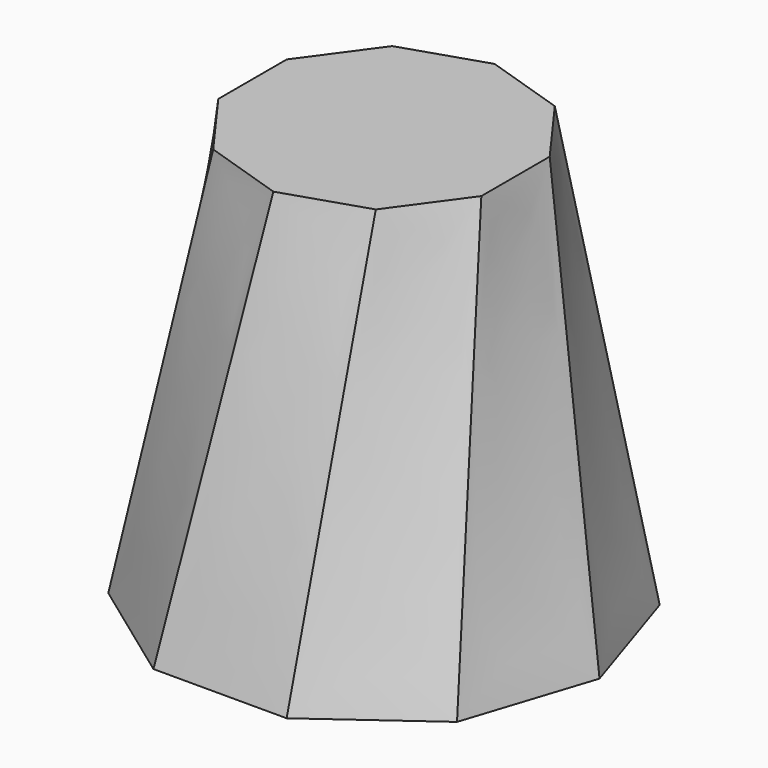
from build123d import *

# Parameters (mm, degrees)
F4_T = -2.54


with BuildPart() as f3:
    # F2 (on offset) → F3 section 0
    with BuildSketch(Plane.XY.offset(76.2)):
        Polygon((0, -25.4), (14.9297454082, -20.5490316571), (24.1568355139, -7.8490316571), (24.1568355139, 7.8490316571), (14.9297454082, 20.5490316571), (0, 25.4), (-14.9297454082, 20.5490316571), (-24.1568355139, 7.8490316571), (-24.1568355139, -7.8490316571), (-14.9297454082, -20.5490316571), align=None)
    # F0 (on Top) → F3 section 1
    with BuildSketch(Plane.XY):
        Polygon((-12.2329573114, -37.6491713284), (12.2329573114, -37.6491713284), (32.0262980243, -23.2684675292), (39.5866814257, 0), (32.0262980243, 23.2684675292), (12.2329573114, 37.6491713284), (-12.2329573114, 37.6491713284), (-32.0262980243, 23.2684675292), (-39.5866814257, 0), (-32.0262980243, -23.2684675292), align=None)
    loft()

    # F4
    f4_openings = [f3.faces().sort_by_distance(p)[0] for p in [
        (0, 0, 0),
    ]]
    offset(amount=F4_T, openings=f4_openings)


solid = f3.part
